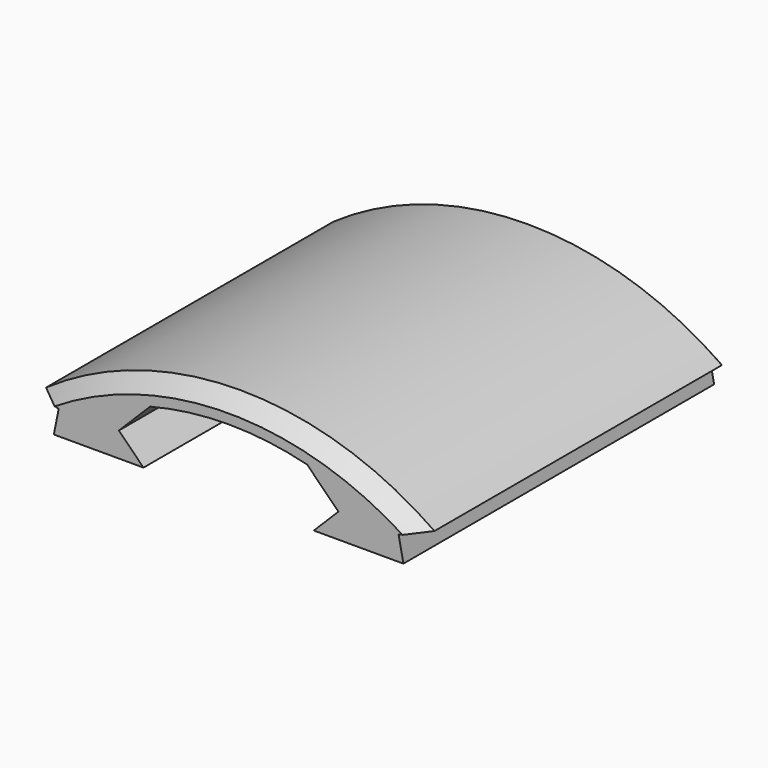
from build123d import *

# Parameters (mm, degrees)
F1_DEPTH = 40
F2_SIZE  = 1.5


with BuildPart() as f1:
    # F0 (on Front) → F1 (new body)
    with BuildSketch(Plane.XZ):
        with BuildLine():
            Line((11.307107, 6.555), (8.768918, 4.016812))
            Line((8.768918, 4.016812), (18, 4.016812))
            Line((18, 4.016812), (17.5, 6.516812))
            Line((17.5, 6.516812), (20, 7.016812))
            ThreePointArc((20, 7.016812), (0, 13.293998), (-20, 7.016812))
            Line((-20, 7.016812), (-17.5, 6.516812))
            Line((-17.5, 6.516812), (-18, 4.016812))
            Line((-18, 4.016812), (-8.768918, 4.016812))
            Line((-8.768918, 4.016812), (-11.307107, 6.555))
            Line((-11.307107, 6.555), (-8.091484, 9.770623))
            ThreePointArc((-8.091484, 9.770623), (0, 10.793998), (8.091484, 9.770623))
            Line((8.091484, 9.770623), (11.307107, 6.555))
        make_face()
    extrude(amount=-F1_DEPTH)

    # F2
    f2_edges = [f1.edges().sort_by_distance(p)[0] for p in [
        (0, 0, 13.293998),
        (0, 40, 13.293998),
    ]]
    chamfer(f2_edges, length=F2_SIZE)


solid = f1.part
